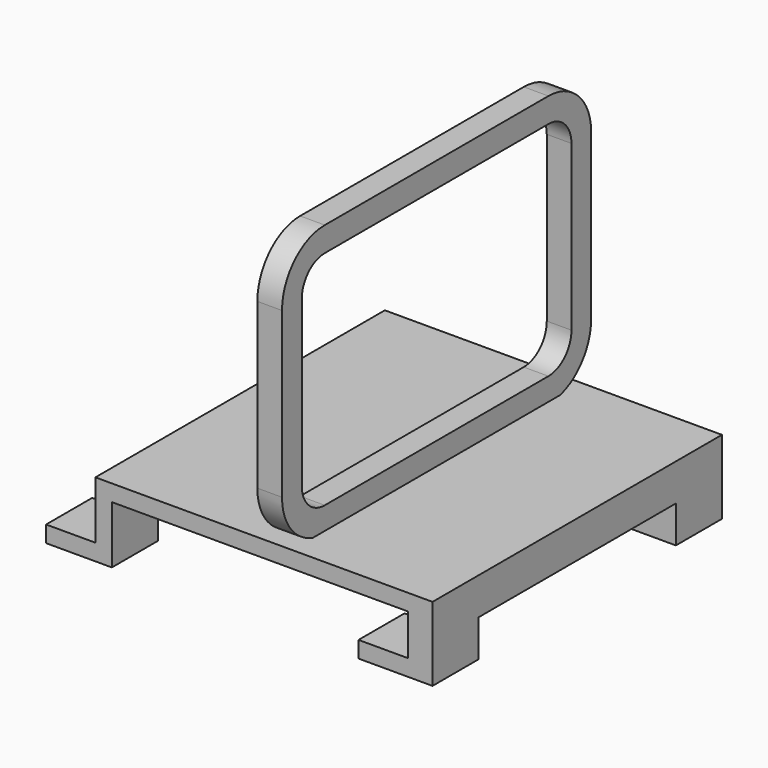
from build123d import *

# Parameters (mm, degrees)
F1_DEPTH = 22
F2_W     = 2
F2_H     = 2.5
F2_W_2   = 3
F4_DEPTH = 15
F6_W     = 3
F6_H     = 3


with BuildPart() as f1:
    # F0 (on Front) → F1 (new body)
    with BuildSketch(Plane.XZ):
        Polygon((-22.3971781656, 0), (-28.3971781656, 0), (-28.3971781656, -2), (-20.3971781656, -2), (-20.3971781656, 5), (13.6028218344, 5), (15.6028218344, 5), (15.6028218344, 0), (9.6028218344, 0), (9.6028218344, -2), (18.6028218344, -2), (18.6028218344, 7), (-22.3971781656, 7), align=None)
    extrude(amount=F1_DEPTH)

    # F2 (on face) → F4 (cut)
    with BuildSketch(Plane.XZ.offset(22)):
        Polygon((-20.3971781656, 0), (-22.3971781656, 0), (-28.3971781656, 0), (-28.3971781656, -2), (-20.3971781656, -2), align=None)
        Polygon((18.6028218344, -2), (18.6028218344, 0), (15.6028218344, 0), (9.6028218344, 0), (9.6028218344, -2), align=None)
        with Locations((-21.3971781656, 1.25)):
            Rectangle(F2_W, F2_H)
        with Locations((17.1028218344, 1.25)):
            Rectangle(F2_W_2, F2_H)
    extrude(amount=-F4_DEPTH, mode=Mode.SUBTRACT)

    # F7: sweep along a path in F3
    with BuildLine(Plane.YZ) as f7_path:
        Line((-22.250123322, 8.247365728), (-5, 8.247365728))
        ThreePointArc((-5, 8.247365728), (-1.4644660941, 9.7118318221), (0, 13.247365728))
        Line((0, 13.247365728), (0, 33.247365728))
        ThreePointArc((0, 33.247365728), (-1.4644660941, 36.782899634), (-5, 38.247365728))
        Line((-5, 38.247365728), (-22.250123322, 38.247365728))
    # F6 (on offset) → F7 (sweep)
    with BuildSketch(Plane.XZ.offset(22)):
        with Locations((0, 8.247365728)):
            Rectangle(F6_W, F6_H)
    sweep(path=f7_path.line)

    # F8: F1 across plane


with BuildPart() as f1_1:
    add(f1.part)
    add(f1.part.mirror(Plane.XZ.offset(22)))


solid = f1_1.part
